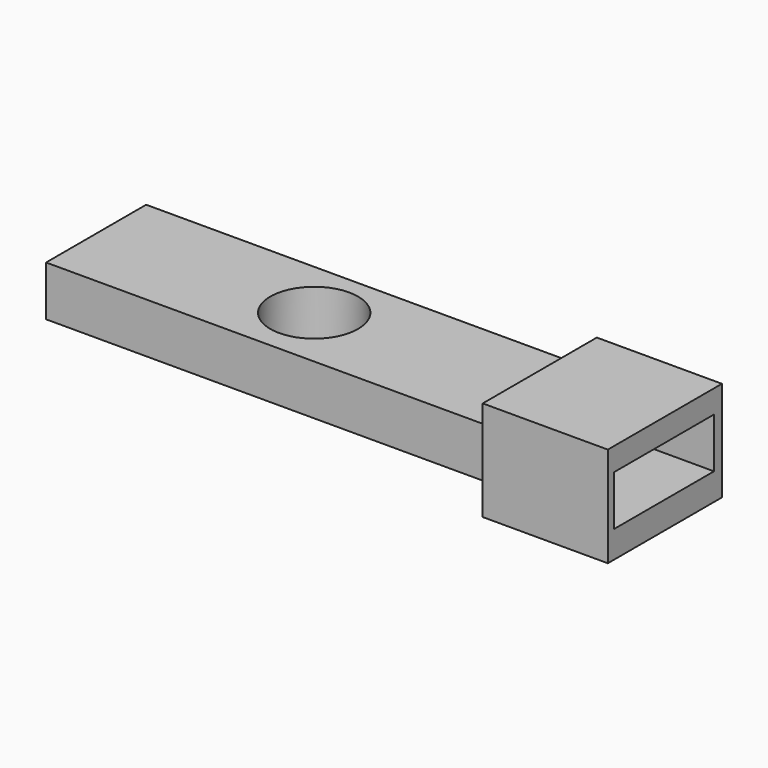
from build123d import *

# Parameters (mm, degrees)
F0_W     = 449.494392
F0_H     = 127
F0_R     = 44.5643
F1_DEPTH = 50.8
F2_W     = 144.78
F2_H     = 101.6
F2_W_2   = 127
F2_H_2   = 50.8
F3_DEPTH = 127


with BuildPart() as f1:
    # F0 (on Top) → F1 (new body)
    with BuildSketch(Plane.XY):
        with Locations((4.88022, -1.901435)):
            Rectangle(F0_W, F0_H)
        Circle(F0_R, mode=Mode.SUBTRACT)
    extrude(amount=F1_DEPTH)


with BuildPart() as f3:
    # F2 (on face) → F3 (new body)
    with BuildSketch(Plane.YZ.offset(229.627416)):
        with Locations((-0.737573, 23.373706)):
            Rectangle(F2_W, F2_H)
        with Locations((-1.901435, 25.4)):
            Rectangle(F2_W_2, F2_H_2, mode=Mode.SUBTRACT)
    extrude(amount=F3_DEPTH)


solid = Compound([f1.part, f3.part])
